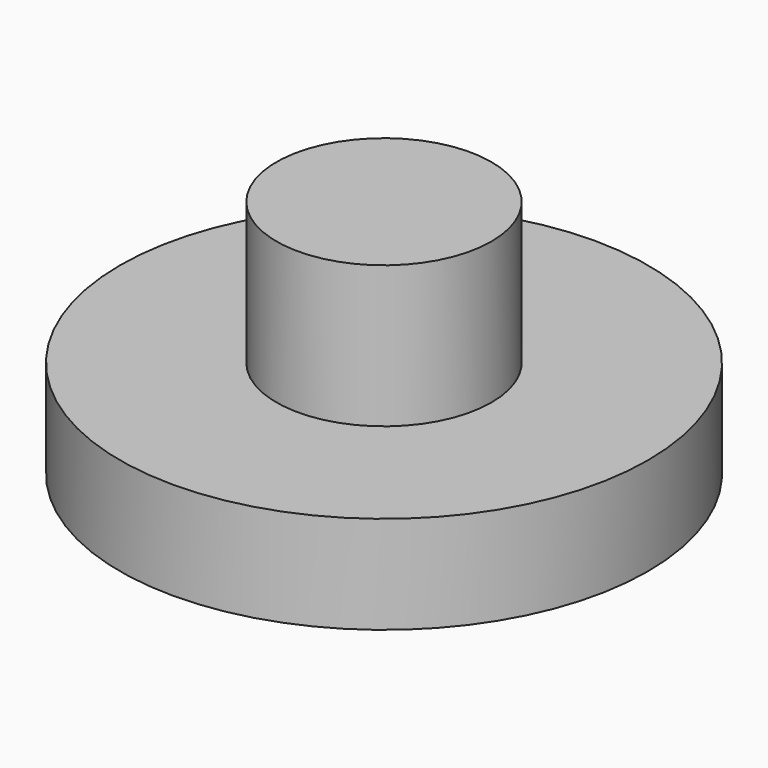
from build123d import *

# Parameters (mm, degrees)
SKETCH006_R      = 54
EXTRUDE006_DEPTH = 20
SKETCH007_R      = 22
EXTRUDE007_DEPTH = 29
SKETCH008_R      = 7
EXTRUDE008_DEPTH = 20


with BuildPart() as gearholder:
    # Sketch006 (on Face123 of Fusion001) → Extrude006 (new body)
    with BuildSketch(Plane.XY.offset(10)):
        Circle(SKETCH006_R)
    extrude(amount=-EXTRUDE006_DEPTH)


with BuildPart() as motorshaftholder:
    # Sketch007 (on Face3 of Extrude006) → Extrude007 (new body)
    with BuildSketch(Plane.XY.offset(10)):
        Circle(SKETCH007_R)
    extrude(amount=EXTRUDE007_DEPTH)


with BuildPart() as obj1:
    # Sketch008 (on Face2 of Extrude006) → Extrude008 (new body)
    with BuildSketch(Plane(origin=(0, 0, -10), x_dir=(1, 0, 0), z_dir=(0, 0, -1))):
        Circle(SKETCH008_R)
    extrude(amount=EXTRUDE008_DEPTH)

    # Fusion006: union gearHolder, motorShaftHolder
    add(gearholder.part)
    add(motorshaftholder.part)


solid = obj1.part
